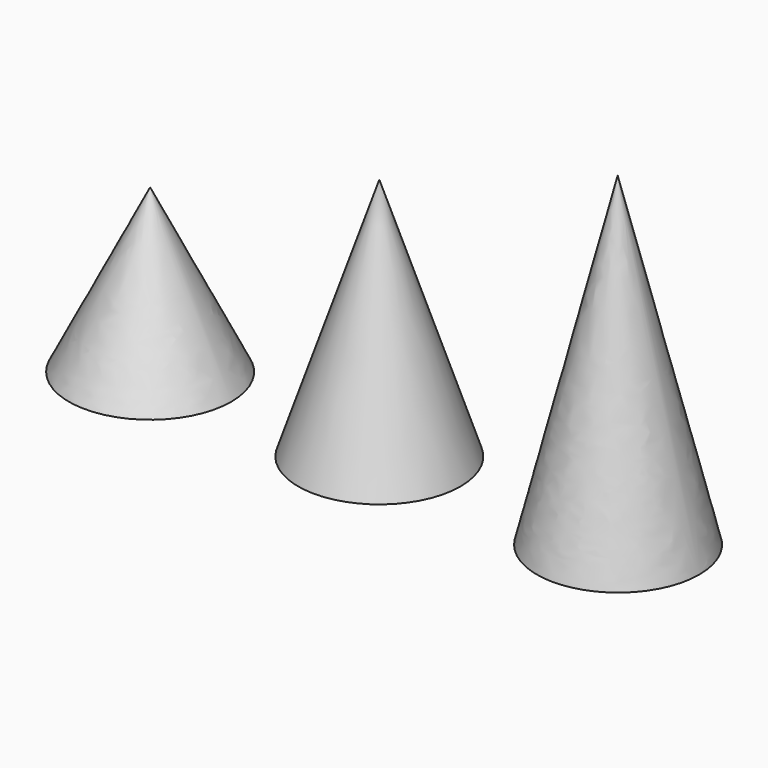
from build123d import *

# Parameters (mm, degrees)
F0_R = 5


with BuildPart() as f3:
    # F0 (on Top) → F3 section 0
    with BuildSketch(Plane.XY, mode=Mode.PRIVATE) as f3_s0:
        Circle(F0_R)
    loft([f3_s0.sketch, Vertex(0, 0, 15)])


with BuildPart() as f6:
    # F0 (on Top) → F6 section 0
    with BuildSketch(Plane.XY, mode=Mode.PRIVATE) as f6_s0:
        with Locations((14.694712, 0)):
            Circle(F0_R)
    loft([f6_s0.sketch, Vertex(14.668925, 0, 20)])


with BuildPart() as f9:
    # F0 (on Top) → F9 section 0
    with BuildSketch(Plane.XY, mode=Mode.PRIVATE) as f9_s0:
        with Locations((-14.108047, 0)):
            Circle(F0_R)
    loft([f9_s0.sketch, Vertex(-14.106684, 0, 10)])


solid = Compound([f3.part, f6.part, f9.part])
